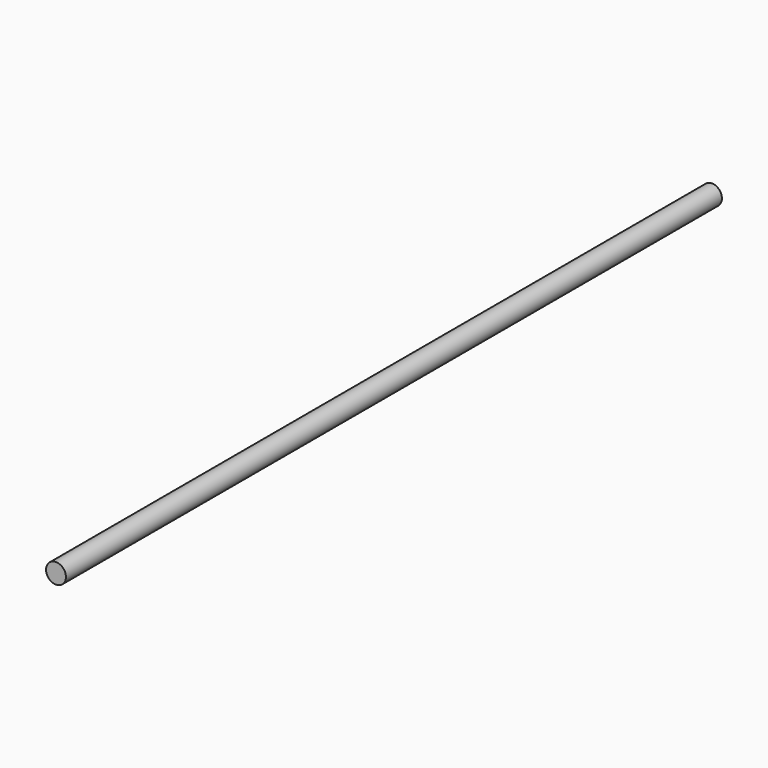
from build123d import *

# Parameters (mm, degrees)
SKETCH_R  = 4
PAD_DEPTH = 330


with BuildPart() as part:
    # Sketch → Pad (new body)
    with BuildSketch(Plane.XZ):
        Circle(SKETCH_R)
    extrude(amount=PAD_DEPTH)


solid = part.part
